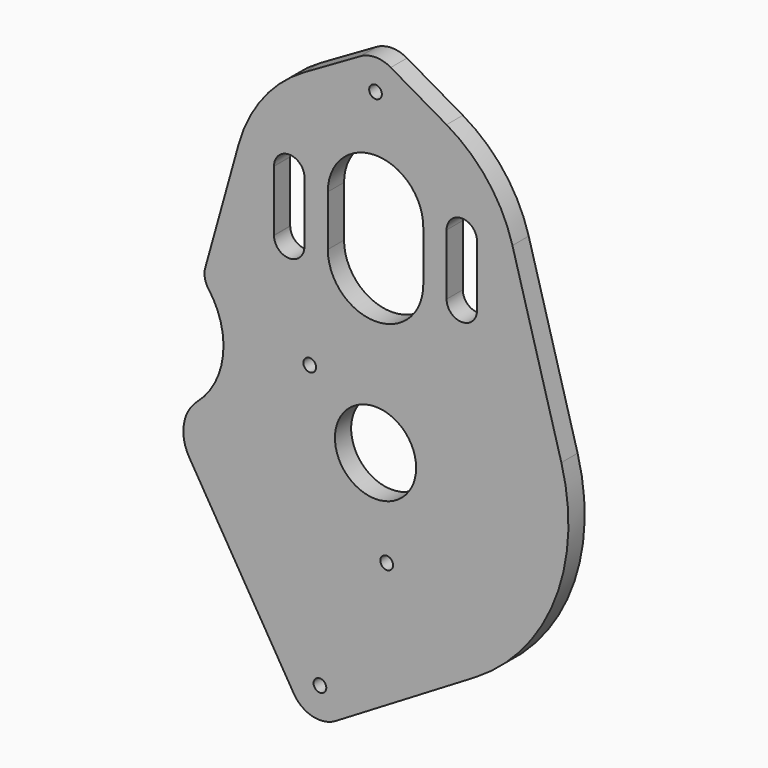
from build123d import *

# Parameters (mm, degrees)
F0_R     = 0.625
F0_R_2   = 4
F1_DEPTH = 2


with BuildPart() as f1:
    # F0 (on Front) → F1 (new body)
    with BuildSketch(Plane.XZ):
        with BuildLine():
            Line((-3.928953, -24.526788), (9.785723, -16.286179))
            ThreePointArc((9.785723, -16.286179), (17.653145, -7.026129), (18.300633, 5.107527))
            Line((18.300633, 5.107527), (13.484677, 22.363441))
            ThreePointArc((13.484677, 22.363441), (11.061629, 27.181397), (6.997178, 30.725984))
            Line((6.997178, 30.725984), (1.499395, 33.898425))
            ThreePointArc((1.499395, 33.898425), (0, 34.3), (-1.499395, 33.898425))
            Line((-1.499395, 33.898425), (-6.997178, 30.725984))
            ThreePointArc((-6.997178, 30.725984), (-11.061629, 27.181397), (-13.484677, 22.363441))
            Line((-13.484677, 22.363441), (-16.76984, 10.592467))
            ThreePointArc((-16.76984, 10.592467), (-16.810073, 9.690932), (-16.449911, 8.863486))
            ThreePointArc((-16.449911, 8.863486), (-15.01815, 3.584383), (-17.552148, -1.263062))
            ThreePointArc((-17.552148, -1.263062), (-18.877937, -3.655988), (-18.355769, -6.341347))
            Line((-18.355769, -6.341347), (-8.04557, -23.5004))
            ThreePointArc((-8.04557, -23.5004), (-6.199833, -24.866173), (-3.928953, -24.526788))
        make_face()
        with Locations((-5.474068, -21.955286)):
            Circle(F0_R, mode=Mode.SUBTRACT)
        Circle(F0_R_2, mode=Mode.SUBTRACT)
        with Locations((1.1, -9.184362)):
            Circle(F0_R, mode=Mode.SUBTRACT)
        with Locations((-6.480741, 5.5)):
            Circle(F0_R, mode=Mode.SUBTRACT)
        with BuildLine():
            ThreePointArc((-9.999921, 21.615416), (-8.492292, 23.09998), (-7, 21.6))
            Line((-7, 21.6), (-7, 18.6))
            Line((-7, 18.6), (-7, 15.6))
            ThreePointArc((-7, 15.6), (-8.492292, 14.10002), (-9.999921, 15.584584))
            ThreePointArc((-9.999921, 15.584584), (-10, 15.6), (-9.999921, 15.615416))
            Line((-9.999921, 15.615416), (-9.999921, 18.6))
            Line((-9.999921, 18.6), (-9.999921, 21.584584))
            ThreePointArc((-9.999921, 21.584584), (-10, 21.6), (-9.999921, 21.615416))
        make_face(mode=Mode.SUBTRACT)
        with BuildLine():
            ThreePointArc((4.7, 16.1), (0, 11.4), (-4.7, 16.1))
            Line((-4.7, 16.1), (-4.7, 21.1))
            ThreePointArc((-4.7, 21.1), (0, 25.8), (4.7, 21.1))
            Line((4.7, 21.1), (4.7, 16.1))
        make_face(mode=Mode.SUBTRACT)
        with Locations((0, 31.3)):
            Circle(F0_R, mode=Mode.SUBTRACT)
        with BuildLine():
            ThreePointArc((9.999921, 15.584584), (8.492292, 14.10002), (7, 15.6))
            Line((7, 15.6), (7, 18.6))
            Line((7, 18.6), (7, 21.6))
            ThreePointArc((7, 21.6), (8.492292, 23.09998), (9.999921, 21.615416))
            Line((9.999921, 21.615416), (9.999921, 21.584584))
            Line((9.999921, 21.584584), (9.999921, 18.6))
            Line((9.999921, 18.6), (9.999921, 15.615416))
            ThreePointArc((9.999921, 15.615416), (10, 15.6), (9.999921, 15.584584))
        make_face(mode=Mode.SUBTRACT)
    extrude(amount=F1_DEPTH)


solid = f1.part
